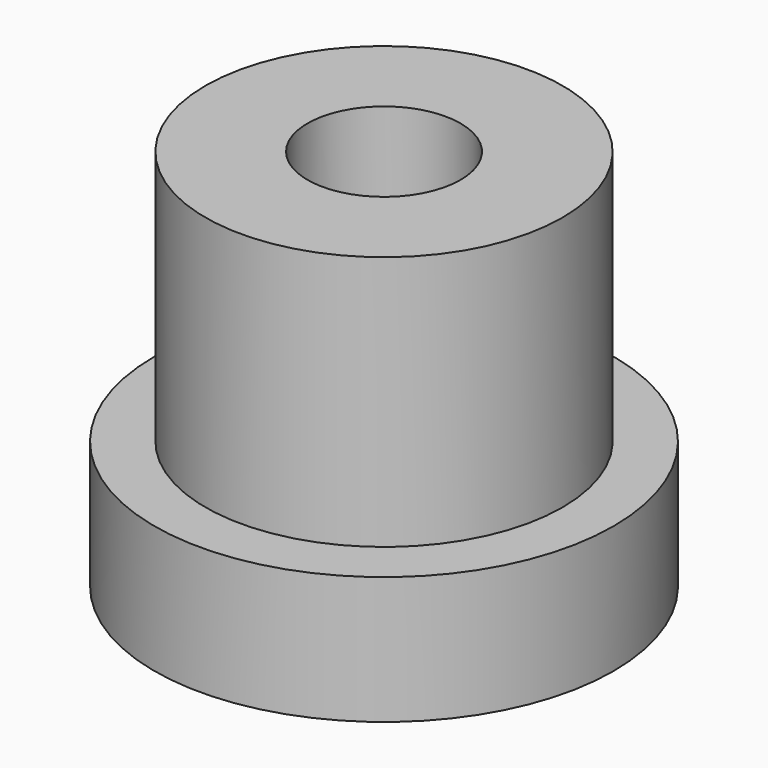
from build123d import *

# Parameters (mm, degrees)
F0_R     = 9
F0_R_2   = 7
F1_DEPTH = 5
F2_DEPTH = 10
F3_R     = 3
F4_DEPTH = 8


with BuildPart() as f1:
    # F0 (on Top) → F1 (new body)
    with BuildSketch(Plane.XY):
        Circle(F0_R)
        Circle(F0_R_2, mode=Mode.SUBTRACT)
        Circle(F0_R_2)
    extrude(amount=-F1_DEPTH)

    # F0 (on Top) → F2 (join)
    with BuildSketch(Plane.XY):
        Circle(F0_R_2)
    extrude(amount=F2_DEPTH)

    # F3 (on face) → F4 (cut)
    with BuildSketch(Plane.XY.offset(10)):
        Circle(F3_R)
    extrude(amount=-F4_DEPTH, mode=Mode.SUBTRACT)


solid = f1.part
